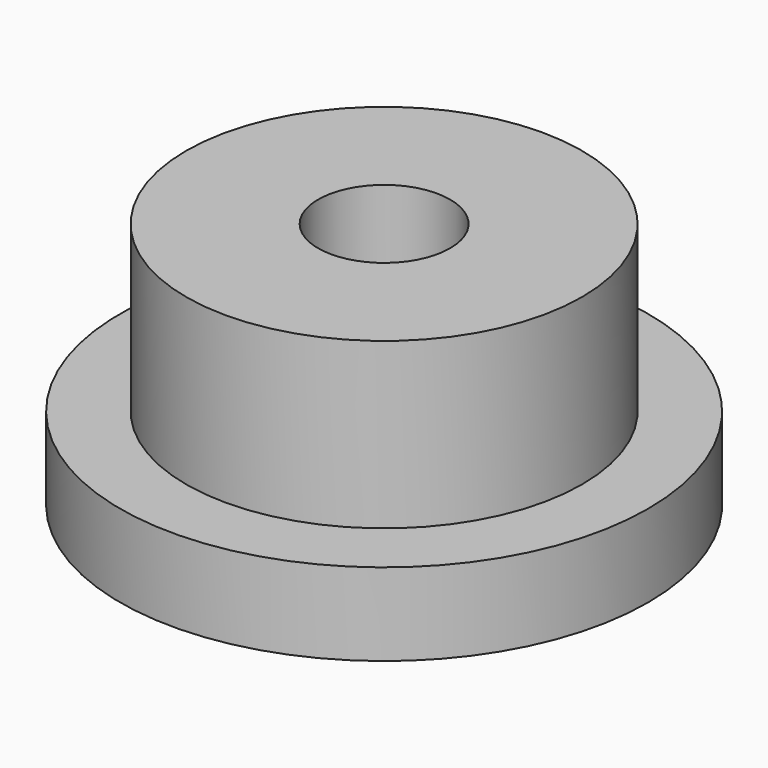
from build123d import *

# Parameters (mm, degrees)
F0_R     = 10.16
F1_DEPTH = 3.175
F2_R     = 7.62
F3_DEPTH = 6.35
F4_R     = 2.54
F5_DEPTH = 9.525


with BuildPart() as f1:
    # F0 (on Top) → F1 (new body)
    with BuildSketch(Plane.XY):
        Circle(F0_R)
    extrude(amount=F1_DEPTH)

    # F2 (on face) → F3 (join)
    with BuildSketch(Plane.XY.offset(3.175)):
        Circle(F2_R)
    extrude(amount=F3_DEPTH)

    # F4 (on face) → F5 (cut, through all)
    with BuildSketch(Plane.XY.offset(9.525)):
        Circle(F4_R)
    extrude(amount=-F5_DEPTH, mode=Mode.SUBTRACT)


solid = f1.part
